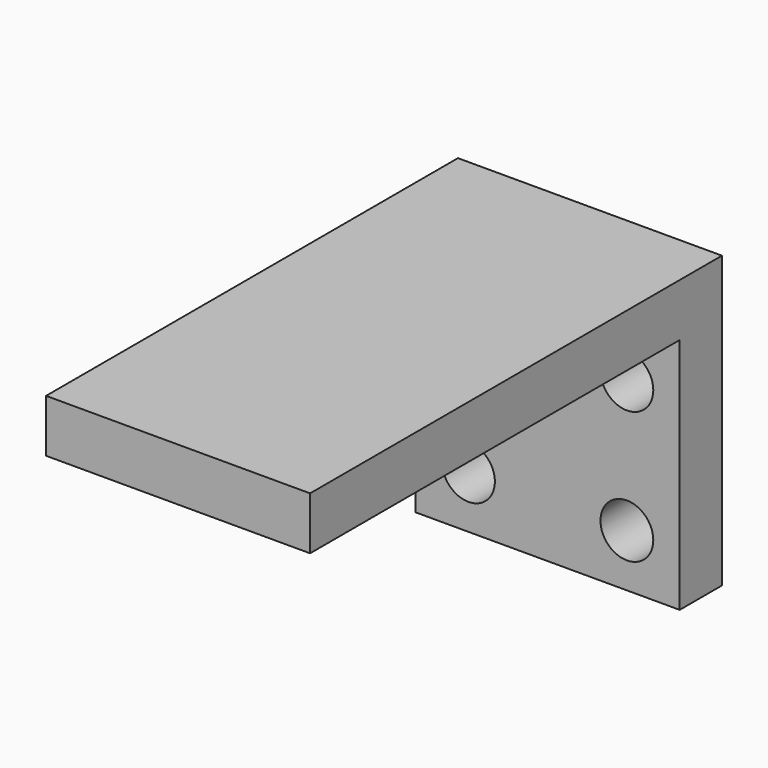
from build123d import *

# Parameters (mm, degrees)
F0_W     = 20
F0_H     = 22
F0_R     = 2
F1_DEPTH = 4
F2_W     = 20
F2_H     = 4
F3_DEPTH = 35


with BuildPart() as f1:
    # F0 (on Front) → F1 (new body)
    with BuildSketch(Plane.XZ):
        with Locations((0, 2)):
            Rectangle(F0_W, F0_H)
        with Locations((-6, -5)):
            Circle(F0_R, mode=Mode.SUBTRACT)
        with Locations((6, -5)):
            Circle(F0_R, mode=Mode.SUBTRACT)
        with Locations((-6, 5)):
            Circle(F0_R, mode=Mode.SUBTRACT)
        with Locations((6, 5)):
            Circle(F0_R, mode=Mode.SUBTRACT)
    extrude(amount=F1_DEPTH)

    # F2 (on face) → F3 (join)
    with BuildSketch(Plane.XZ.offset(4)):
        with Locations((0, 11)):
            Rectangle(F2_W, F2_H)
    extrude(amount=F3_DEPTH)


solid = f1.part
